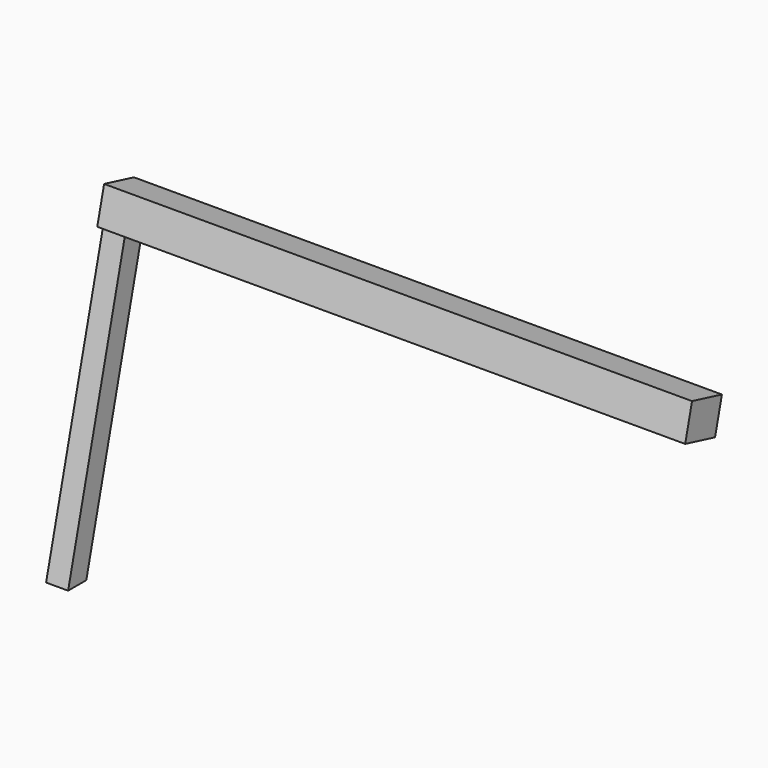
from build123d import *

# Parameters (mm, degrees)
F1_DEPTH = 30
F3_DEPTH = 800


with BuildPart() as f1:
    # F0 (on Right) → F1 (new body)
    with BuildSketch(Plane.YZ):
        Polygon((97.178735, 388.015842), (0, 0), (30.926572, 0), (126.279923, 380.727437), align=None)
    extrude(amount=F1_DEPTH)


with BuildPart() as f3:
    # F2 (on Right) → F3 (new body)
    with BuildSketch(Plane.YZ):
        Polygon((98.704768, 437.38181), (87.043794, 390.797778), (137.844845, 378.081195), (149.505819, 424.665226), align=None)
    extrude(amount=F3_DEPTH)


solid = Compound([f1.part, f3.part])
